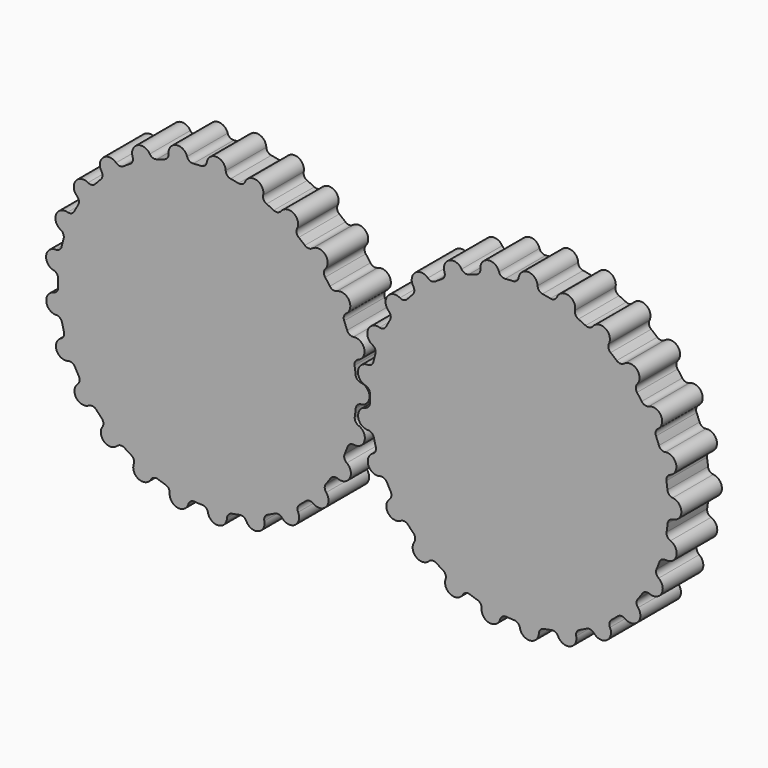
from build123d import *

# Parameters (mm, degrees)
F1_DEPTH = 172.72
F2_R     = 20


with BuildPart() as f1:
    # F0 (on Front) → F1 (new body)
    with BuildSketch(Plane.XZ):
        with BuildLine():
            ThreePointArc((59.510271, 504.502257), (32.42462, 551.669488), (0, 508))
            ThreePointArc((0, 508), (-33.988139, 506.861723), (-67.823963, 503.451994))
            ThreePointArc((-67.823963, 503.451994), (-105.788682, 542.401451), (-126.334463, 492.040246))
            ThreePointArc((-126.334463, 492.040246), (-158.971724, 482.485224), (-190.896568, 470.76799))
            ThreePointArc((-190.896568, 470.76799), (-237.354892, 499.052337), (-244.730866, 445.163793))
            ThreePointArc((-244.730866, 445.163793), (-273.966531, 427.792403), (-301.97444, 408.503902))
            ThreePointArc((-301.97444, 408.503902), (-354.007221, 424.345929), (-347.74993, 370.316063))
            ThreePointArc((-347.74993, 370.316063), (-371.747013, 346.219813), (-394.078147, 320.572011))
            ThreePointArc((-394.078147, 320.572011), (-448.415974, 322.976305), (-428.918586, 272.200012))
            ThreePointArc((-428.918586, 272.200012), (-446.169263, 242.892958), (-461.420474, 212.497402))
            ThreePointArc((-461.420474, 212.497402), (-514.649102, 201.312893), (-483.13671, 156.980633))
            ThreePointArc((-483.13671, 156.980633), (-492.557057, 124.304245), (-499.770057, 91.0708))
            ThreePointArc((-499.770057, 91.0708), (-548.544935, 67.000251), (-506.997578, 31.897584))
            ThreePointArc((-506.997578, 31.897584), (-507.99568, -2.09496), (-506.717248, -36.078116))
            ThreePointArc((-506.717248, -36.078116), (-547.973672, -71.522263), (-499.001923, -95.189708))
            ThreePointArc((-499.001923, -95.189708), (-491.515066, -128.362531), (-481.825531, -160.960111))
            ThreePointArc((-481.825531, -160.960111), (-512.971208, -205.55077), (-459.652143, -216.29588))
            ThreePointArc((-459.652143, -216.29588), (-444.150753, -246.564613), (-426.658945, -275.72839))
            ThreePointArc((-426.658945, -275.72839), (-445.736876, -326.663767), (-391.420727, -323.811387))
            ThreePointArc((-391.420727, -323.811387), (-368.878815, -349.274133), (-344.683807, -373.17164))
            ThreePointArc((-344.683807, -373.17164), (-350.495257, -427.251277), (-298.594908, -410.980633))
            ThreePointArc((-298.594908, -410.980633), (-270.428864, -430.037475), (-241.050918, -447.167144))
            ThreePointArc((-241.050918, -447.167144), (-233.230732, -500.993019), (-187.007273, -472.326455))
            ThreePointArc((-187.007273, -472.326455), (-154.986873, -483.77998), (-122.271914, -493.065492))
            ThreePointArc((-122.271914, -493.065492), (-101.311463, -543.255526), (-63.669283, -503.994268))
            ThreePointArc((-63.669283, -503.994268), (-29.806487, -507.12481), (4.189885, -507.982721))
            ThreePointArc((4.189885, -507.982721), (36.973579, -551.383291), (63.669283, -503.994268))
            ThreePointArc((63.669283, -503.994268), (97.246751, -498.605124), (130.388417, -490.981528))
            ThreePointArc((130.388417, -490.981528), (172.935434, -524.865616), (187.007273, -472.326455))
            ThreePointArc((187.007273, -472.326455), (218.189617, -458.756243), (248.394166, -443.13016))
            ThreePointArc((248.394166, -443.13016), (298.031121, -465.368704), (298.594908, -410.980633))
            ThreePointArc((298.594908, -410.980633), (325.422828, -390.082021), (350.792396, -367.435294))
            ThreePointArc((350.792396, -367.435294), (404.400415, -376.630965), (391.420727, -323.811387))
            ThreePointArc((391.420727, -323.811387), (412.208525, -296.897511), (431.149049, -268.653117))
            ThreePointArc((431.149049, -268.653117), (485.359745, -264.228117), (459.652143, -216.29588))
            ThreePointArc((459.652143, -216.29588), (473.093645, -185.057838), (484.415023, -152.990477))
            ThreePointArc((484.415023, -152.990477), (535.822136, -135.222844), (499.001923, -95.189708))
            ThreePointArc((499.001923, -95.189708), (504.252551, -61.590301), (507.243418, -27.714882))
            ThreePointArc((507.243418, -27.714882), (552.616853, 2.278977), (506.997578, 31.897584))
            ThreePointArc((506.997578, 31.897584), (503.727414, 65.747182), (498.199844, 99.30214))
            ThreePointArc((498.199844, 99.30214), (534.688619, 139.637601), (483.13671, 156.980633))
            ThreePointArc((483.13671, 156.980633), (471.551232, 188.953527), (457.852542, 220.079644))
            ThreePointArc((457.852542, 220.079644), (483.163934, 268.222281), (428.918586, 272.200012))
            ThreePointArc((428.918586, 272.200012), (409.745752, 300.287227), (388.736681, 327.028734))
            ThreePointArc((388.736681, 327.028734), (401.280282, 379.95357), (347.74993, 370.316063))
            ThreePointArc((347.74993, 370.316063), (322.194439, 392.752777), (295.195064, 413.429407))
            ThreePointArc((295.195064, 413.429407), (294.182713, 467.810977), (244.730866, 445.163793))
            ThreePointArc((244.730866, 445.163793), (214.398464, 460.540225), (183.105256, 473.852789))
            ThreePointArc((183.105256, 473.852789), (168.600563, 526.274101), (126.334463, 492.040246))
            ThreePointArc((126.334463, 492.040246), (93.131046, 499.390237), (59.510271, 504.502257))
        make_face()
    extrude(amount=-F1_DEPTH)

    # F2
    f2_edges = [f1.edges().sort_by_distance(p)[0] for p in [
        (-461.420474, 86.36, 212.497402),
        (-394.078147, 86.36, 320.572011),
        (-301.97444, 86.36, 408.503902),
        (-499.770057, 86.36, 91.0708),
        (-506.717248, 86.36, -36.078116),
        (-499.001923, 86.36, -95.189708),
        (-459.652143, 86.36, -216.29588),
        (-391.420727, 86.36, -323.811387),
        (4.189885, 86.36, -507.982721),
        (130.388417, 86.36, -490.981528),
        (248.394166, 86.36, -443.13016),
        (-426.658945, 86.36, -275.72839),
        (-344.683807, 86.36, -373.17164),
        (-241.050918, 86.36, -447.167144),
        (-122.271914, 86.36, -493.065492),
        (-63.669283, 86.36, -503.994268),
        (63.669283, 86.36, -503.994268),
        (187.007273, 86.36, -472.326455),
        (298.594908, 86.36, -410.980633),
        (391.420727, 86.36, -323.811387),
        (459.652143, 86.36, -216.29588),
        (499.001923, 86.36, -95.189708),
        (506.997578, 86.36, 31.897584),
        (483.13671, 86.36, 156.980633),
        (428.918586, 86.36, 272.200012),
        (347.74993, 86.36, 370.316063),
        (244.730866, 86.36, 445.163793),
        (126.334463, 86.36, 492.040246),
        (0, 86.36, 508),
        (-126.334463, 86.36, 492.040246),
        (-244.730866, 86.36, 445.163793),
        (-190.896568, 86.36, 470.76799),
        (-67.823963, 86.36, 503.451994),
        (59.510271, 86.36, 504.502257),
        (183.105256, 86.36, 473.852789),
        (295.195064, 86.36, 413.429407),
        (388.736681, 86.36, 327.028734),
        (457.852542, 86.36, 220.079644),
        (498.199844, 86.36, 99.30214),
        (507.243418, 86.36, -27.714882),
        (484.415023, 86.36, -152.990477),
        (431.149049, 86.36, -268.653117),
        (350.792396, 86.36, -367.435294),
        (-506.997578, 86.36, 31.897584),
        (-483.13671, 86.36, 156.980633),
        (-428.918586, 86.36, 272.200012),
        (-481.825531, 86.36, -160.960111),
        (-347.74993, 86.36, 370.316063),
        (-298.594908, 86.36, -410.980633),
        (-187.007273, 86.36, -472.326455),
    ]]
    fillet(f2_edges, radius=F2_R)


with BuildPart() as f3_1:
    # F3: copy of F1
    add(f1.part.moved(Location((1020, 0, 0))))


with BuildPart() as f3_1_1:
    # F4: moved
    add(f3_1.part.moved(Location((42, 0, 0))))


solid = Compound([f1.part, f3_1_1.part])
